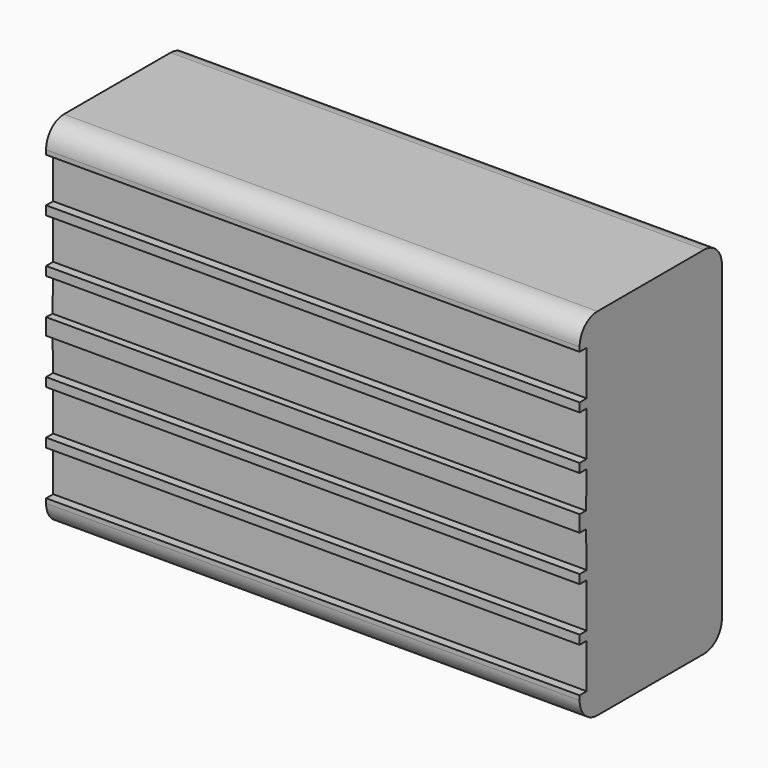
from build123d import *

# Parameters (mm, degrees)
F0_W     = 120
F0_H     = 80
F1_DEPTH = 40
F2_R     = 5
F4_DEPTH = 100


with BuildPart() as f1:
    # F0 (on Front) → F1 (new body)
    with BuildSketch(Plane.XZ):
        Rectangle(F0_W, F0_H)
    extrude(amount=F1_DEPTH)

    # F2
    f2_edges = [f1.edges().sort_by_distance(p)[0] for p in [
        (0, -40, 40),
        (0, -40, -40),
        (0, 0, 40),
        (0, 0, -40),
    ]]
    fillet(f2_edges, radius=F2_R)

    # F3 (on Right) → F4 (cut, symmetric)
    with BuildSketch(Plane.YZ):
        Polygon((-41.373981, 1.894575), (-38.208514, 1.82053), (-38.017184, 10), (-41.193411, 10), (-41.193411, 12), (-38.017184, 12), (-38.017184, 22), (-41.193411, 22), (-41.193411, 24), (-38.017184, 24), (-38.017184, 34), (-44.775072, 34), (-44.878796, 1.82053), (-44.878796, -1.82053), (-44.775072, -34), (-38.017184, -34), (-38.017184, -24), (-41.193411, -24), (-41.193411, -22), (-38.017184, -22), (-38.017184, -12), (-41.193411, -12), (-41.193411, -10), (-38.017184, -10), (-38.208514, -1.82053), (-41.373981, -1.823795), align=None)
    extrude(amount=F4_DEPTH, both=True, mode=Mode.SUBTRACT)


solid = f1.part
